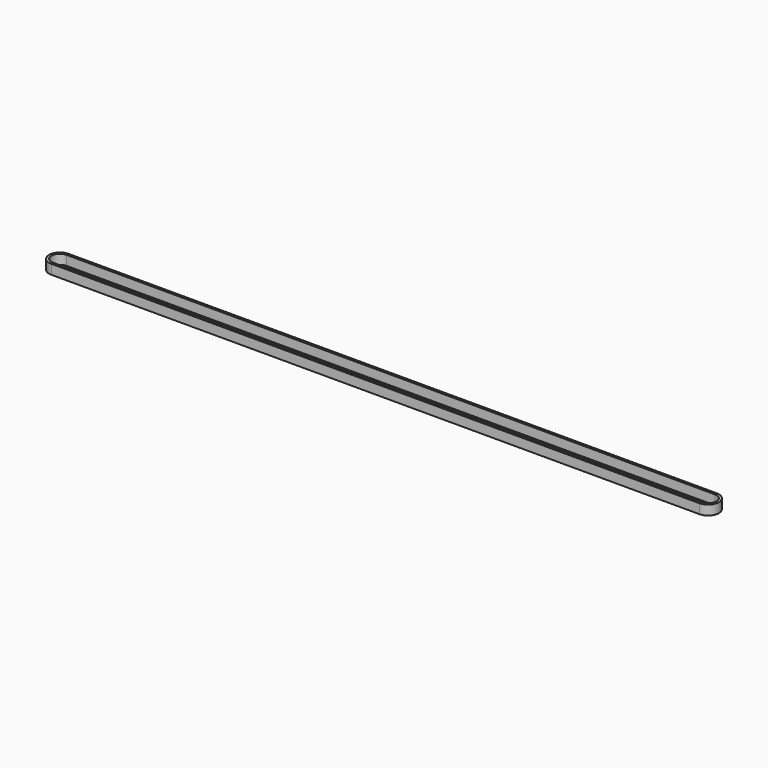
from build123d import *

# Parameters (mm, degrees)
PAD_DEPTH = 6


with BuildPart() as part:
    # Sketch → Pad (new body)
    with BuildSketch(Plane.XY):
        with BuildLine():
            ThreePointArc((-202.000023, 6.75), (-208.750028, -1e-06), (-202.000021, -6.75))
            Line((-202.000021, -6.75), (201.999979, -6.75))
            ThreePointArc((201.999979, -6.75), (208.74998, 1e-06), (201.999977, 6.75))
            Line((-202.000023, 6.75), (201.999977, 6.75))
        make_face()
        with BuildLine():
            Line((-202, 5.25), (202, 5.25))
            ThreePointArc((201.999976, -5.25), (207.24998, -1.2e-05), (202, 5.25))
            Line((201.999976, -5.25), (-202.000024, -5.25))
            ThreePointArc((-202, 5.25), (-207.250028, 1.2e-05), (-202.000024, -5.25))
        make_face(mode=Mode.SUBTRACT)
    extrude(amount=PAD_DEPTH)


solid = part.part
